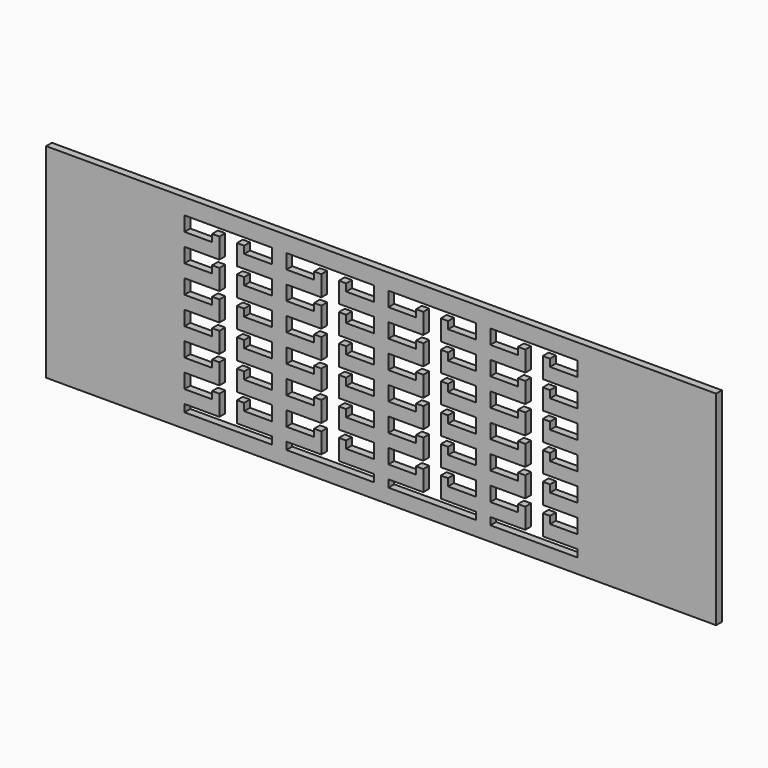
from build123d import *

# Parameters (mm, degrees)
F0_W     = 584.2
F0_H     = 177.8
F1_DEPTH = 6.35


with BuildPart() as f1:
    # F0 (on Front) → F1 (new body)
    with BuildSketch(Plane.XZ):
        with Locations((-193.209771, -3.846272)):
            Rectangle(F0_W, F0_H)
        Polygon((-364.659771, -62.202772), (-364.659771, -49.502772), (-334.179771, -49.502772), (-334.179771, -31.722772), (-340.529771, -31.722772), (-340.529771, -38.072772), (-364.659771, -38.072772), (-364.659771, -25.372772), (-334.179771, -25.372772), (-334.179771, -7.592772), (-340.529771, -7.592772), (-340.529771, -13.942772), (-364.659771, -13.942772), (-364.659771, -1.242772), (-334.179771, -1.242772), (-334.179771, 16.537228), (-340.529771, 16.537228), (-340.529771, 10.187228), (-364.659771, 10.187228), (-364.659771, 22.887228), (-334.179771, 22.887228), (-334.179771, 40.667228), (-340.529771, 40.667228), (-340.529771, 34.317228), (-364.659771, 34.317228), (-364.659771, 47.017228), (-334.179771, 47.017228), (-334.179771, 64.797228), (-340.529771, 64.797228), (-340.529771, 58.447228), (-364.659771, 58.447228), (-364.659771, 71.147228), (-288.459771, 71.147228), (-288.459771, 58.447228), (-312.589771, 58.447228), (-312.589771, 64.797228), (-318.939771, 64.797228), (-318.939771, 47.017228), (-288.459771, 47.017228), (-288.459771, 34.317228), (-312.589771, 34.317228), (-312.589771, 40.667228), (-318.939771, 40.667228), (-318.939771, 22.887228), (-288.459771, 22.887228), (-288.459771, 10.187228), (-312.589771, 10.187228), (-312.589771, 16.537228), (-318.939771, 16.537228), (-318.939771, -1.242772), (-288.459771, -1.242772), (-288.459771, -13.942772), (-312.589771, -13.942772), (-312.589771, -7.592772), (-318.939771, -7.592772), (-318.939771, -25.372772), (-288.459771, -25.372772), (-288.459771, -38.072772), (-312.589771, -38.072772), (-312.589771, -31.722772), (-318.939771, -31.722772), (-318.939771, -49.502772), (-288.459771, -49.502772), (-288.459771, -62.202772), (-312.589771, -62.202772), (-312.589771, -55.852772), (-318.939771, -55.852772), (-318.939771, -73.632772), (-288.459771, -73.632772), (-288.459771, -80.046272), (-364.659771, -80.046272), (-364.659771, -73.632772), (-334.179771, -73.632772), (-334.179771, -55.852772), (-340.529771, -55.852772), (-340.529771, -62.202772), align=None, mode=Mode.SUBTRACT)
        Polygon((-275.759771, 71.147228), (-199.559771, 71.147228), (-199.559771, 58.447228), (-223.689771, 58.447228), (-223.689771, 64.797228), (-230.039771, 64.797228), (-230.039771, 47.017228), (-199.559771, 47.017228), (-199.559771, 34.317228), (-223.689771, 34.317228), (-223.689771, 40.667228), (-230.039771, 40.667228), (-230.039771, 22.887228), (-199.559771, 22.887228), (-199.559771, 10.187228), (-223.689771, 10.187228), (-223.689771, 16.537228), (-230.039771, 16.537228), (-230.039771, -1.242772), (-199.559771, -1.242772), (-199.559771, -13.942772), (-223.689771, -13.942772), (-223.689771, -7.592772), (-230.039771, -7.592772), (-230.039771, -25.372772), (-199.559771, -25.372772), (-199.559771, -38.072772), (-223.689771, -38.072772), (-223.689771, -31.722772), (-230.039771, -31.722772), (-230.039771, -49.502772), (-199.559771, -49.502772), (-199.559771, -62.202772), (-223.689771, -62.202772), (-223.689771, -55.852772), (-230.039771, -55.852772), (-230.039771, -73.632772), (-199.559771, -73.632772), (-199.559771, -80.046272), (-275.759771, -80.046272), (-275.759771, -73.632772), (-245.279771, -73.632772), (-245.279771, -55.852772), (-251.629771, -55.852772), (-251.629771, -62.202772), (-275.759771, -62.202772), (-275.759771, -49.502772), (-245.279771, -49.502772), (-245.279771, -31.722772), (-251.629771, -31.722772), (-251.629771, -38.072772), (-275.759771, -38.072772), (-275.759771, -25.372772), (-245.279771, -25.372772), (-245.279771, -7.592772), (-251.629771, -7.592772), (-251.629771, -13.942772), (-275.759771, -13.942772), (-275.759771, -1.242772), (-245.279771, -1.242772), (-245.279771, 16.537228), (-251.629771, 16.537228), (-251.629771, 10.187228), (-275.759771, 10.187228), (-275.759771, 22.887228), (-245.279771, 22.887228), (-245.279771, 40.667228), (-251.629771, 40.667228), (-251.629771, 34.317228), (-275.759771, 34.317228), (-275.759771, 47.017228), (-245.279771, 47.017228), (-245.279771, 64.797228), (-251.629771, 64.797228), (-251.629771, 58.447228), (-275.759771, 58.447228), align=None, mode=Mode.SUBTRACT)
        Polygon((-186.859771, -62.202772), (-186.859771, -49.502772), (-156.379771, -49.502772), (-156.379771, -31.722772), (-162.729771, -31.722772), (-162.729771, -38.072772), (-186.859771, -38.072772), (-186.859771, -25.372772), (-156.379771, -25.372772), (-156.379771, -7.592772), (-162.729771, -7.592772), (-162.729771, -13.942772), (-186.859771, -13.942772), (-186.859771, -1.242772), (-156.379771, -1.242772), (-156.379771, 16.537228), (-162.729771, 16.537228), (-162.729771, 10.187228), (-186.859771, 10.187228), (-186.859771, 22.887228), (-156.379771, 22.887228), (-156.379771, 40.667228), (-162.729771, 40.667228), (-162.729771, 34.317228), (-186.859771, 34.317228), (-186.859771, 47.017228), (-156.379771, 47.017228), (-156.379771, 64.797228), (-162.729771, 64.797228), (-162.729771, 58.447228), (-186.859771, 58.447228), (-186.859771, 71.147228), (-110.659771, 71.147228), (-110.659771, 58.447228), (-134.789771, 58.447228), (-134.789771, 64.797228), (-141.139771, 64.797228), (-141.139771, 47.017228), (-110.659771, 47.017228), (-110.659771, 34.317228), (-134.789771, 34.317228), (-134.789771, 40.667228), (-141.139771, 40.667228), (-141.139771, 22.887228), (-110.659771, 22.887228), (-110.659771, 10.187228), (-134.789771, 10.187228), (-134.789771, 16.537228), (-141.139771, 16.537228), (-141.139771, -1.242772), (-110.659771, -1.242772), (-110.659771, -13.942772), (-134.789771, -13.942772), (-134.789771, -7.592772), (-141.139771, -7.592772), (-141.139771, -25.372772), (-110.659771, -25.372772), (-110.659771, -38.072772), (-134.789771, -38.072772), (-134.789771, -31.722772), (-141.139771, -31.722772), (-141.139771, -49.502772), (-110.659771, -49.502772), (-110.659771, -62.202772), (-134.789771, -62.202772), (-134.789771, -55.852772), (-141.139771, -55.852772), (-141.139771, -73.632772), (-110.659771, -73.632772), (-110.659771, -80.046272), (-186.859771, -80.046272), (-186.859771, -73.632772), (-156.379771, -73.632772), (-156.379771, -55.852772), (-162.729771, -55.852772), (-162.729771, -62.202772), align=None, mode=Mode.SUBTRACT)
        Polygon((-97.959771, -62.202772), (-97.959771, -49.502772), (-67.479771, -49.502772), (-67.479771, -31.722772), (-73.829771, -31.722772), (-73.829771, -38.072772), (-97.959771, -38.072772), (-97.959771, -25.372772), (-67.479771, -25.372772), (-67.479771, -7.592772), (-73.829771, -7.592772), (-73.829771, -13.942772), (-97.959771, -13.942772), (-97.959771, -1.242772), (-67.479771, -1.242772), (-67.479771, 16.537228), (-73.829771, 16.537228), (-73.829771, 10.187228), (-97.959771, 10.187228), (-97.959771, 22.887228), (-67.479771, 22.887228), (-67.479771, 40.667228), (-73.829771, 40.667228), (-73.829771, 34.317228), (-97.959771, 34.317228), (-97.959771, 47.017228), (-67.479771, 47.017228), (-67.479771, 64.797228), (-73.829771, 64.797228), (-73.829771, 58.447228), (-97.959771, 58.447228), (-97.959771, 71.147228), (-21.759771, 71.147228), (-21.759771, 58.447228), (-45.889771, 58.447228), (-45.889771, 64.797228), (-52.239771, 64.797228), (-52.239771, 47.017228), (-21.759771, 47.017228), (-21.759771, 34.317228), (-45.889771, 34.317228), (-45.889771, 40.667228), (-52.239771, 40.667228), (-52.239771, 22.887228), (-21.759771, 22.887228), (-21.759771, 10.187228), (-45.889771, 10.187228), (-45.889771, 16.537228), (-52.239771, 16.537228), (-52.239771, -1.242772), (-21.759771, -1.242772), (-21.759771, -13.942772), (-45.889771, -13.942772), (-45.889771, -7.592772), (-52.239771, -7.592772), (-52.239771, -25.372772), (-21.759771, -25.372772), (-21.759771, -38.072772), (-45.889771, -38.072772), (-45.889771, -31.722772), (-52.239771, -31.722772), (-52.239771, -49.502772), (-21.759771, -49.502772), (-21.759771, -62.202772), (-45.889771, -62.202772), (-45.889771, -55.852772), (-52.239771, -55.852772), (-52.239771, -73.632772), (-21.759771, -73.632772), (-21.759771, -80.046272), (-97.959771, -80.046272), (-97.959771, -73.632772), (-67.479771, -73.632772), (-67.479771, -55.852772), (-73.829771, -55.852772), (-73.829771, -62.202772), align=None, mode=Mode.SUBTRACT)
    extrude(amount=F1_DEPTH)


solid = f1.part
